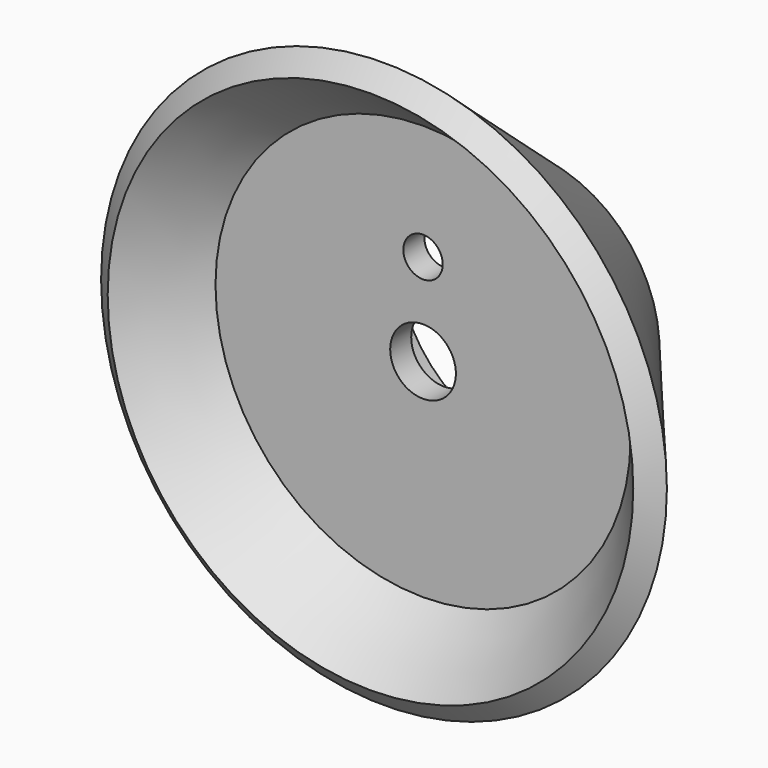
from build123d import *

# Parameters (mm, degrees)
F2_R     = 1.5
F3_DEPTH = 10.001


with BuildPart() as f1:
    # F0 (on Top) → F1 (revolve)
    with BuildSketch(Plane.XY):
        Polygon((-9.2, -8), (-10, 0), (-21.530751, -13.712832), (-20, -15), (-15.795635, -10), (-9, -10), (-2.5, -10), (-2.5, -8), align=None)
    revolve(axis=Axis((0, -0.656405, 0), (0, -1, 0)))

    # F2 (on face) → F3 (cut, through all)
    with BuildSketch(Plane.XZ.offset(10)):
        with Locations((0, 7)):
            Circle(F2_R)
    extrude(amount=-F3_DEPTH, mode=Mode.SUBTRACT)


solid = f1.part
